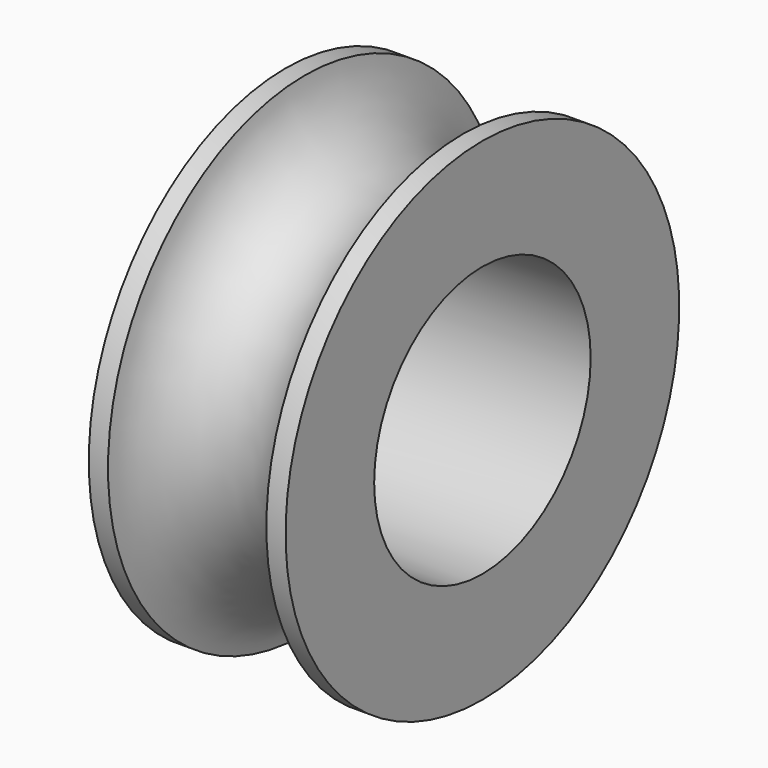
from build123d import *

# Parameters (mm, degrees)
F2_R     = 11
F3_DEPTH = 16.001


with BuildPart() as f1:
    # F0 (on Front) → F1 (revolve)
    with BuildSketch(Plane.XZ):
        with BuildLine():
            Line((-8, 0), (0, 0))
            Line((0, 0), (8, 0))
            Line((8, 0), (8, 20))
            Line((8, 20), (6.435059, 20))
            ThreePointArc((6.435059, 20), (0, 14.258893), (-6.435059, 20))
            Line((-6.435059, 20), (-8, 20))
            Line((-8, 20), (-8, 0))
        make_face()
    revolve(axis=Axis((-1.880259, 0, 0), (-1, 0, 0)))

    # F2 (on face) → F3 (cut, through all)
    with BuildSketch(Plane.YZ.offset(8)):
        Circle(F2_R)
        Circle(F2_R)
    extrude(amount=-F3_DEPTH, mode=Mode.SUBTRACT)


solid = f1.part
